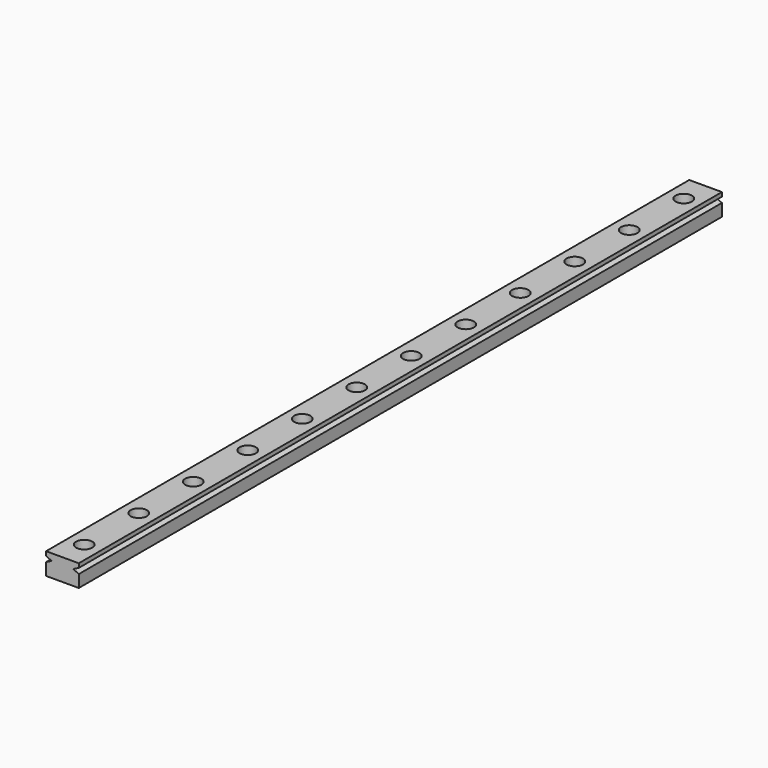
from build123d import *

# Parameters (mm, degrees)
F1_DEPTH       = 295
F3_D           = 3.5
F3_DEPTH       = 20
F3_CBORE_D     = 6
F3_CBORE_DEPTH = 4.5


with BuildPart() as f1:
    # F0 (on Front) → F1 (new body)
    with BuildSketch(Plane.XZ):
        Polygon((-6, 4.5), (-6, 0), (6, 0), (6, 4.5), (4, 5.5), (6, 6.5), (6, 8), (-6, 8), (-6, 6.5), (-4, 5.5), align=None)
    extrude(amount=F1_DEPTH)

    # F3
    with Locations(Plane.XY.offset(8)):
        with Locations((0, -285), (0, -260), (0, -235), (0, -210), (0, -185), (0, -160), (0, -135), (0, -110), (0, -85), (0, -10), (0, -35), (0, -60)):
            CounterBoreHole(F3_D / 2, F3_CBORE_D / 2, F3_CBORE_DEPTH, depth=F3_DEPTH)


solid = f1.part
